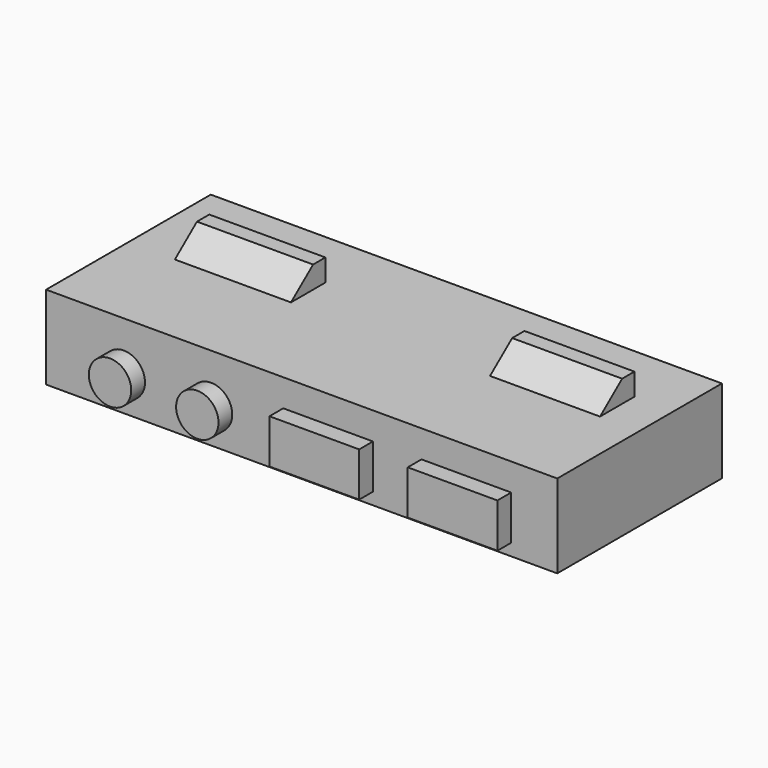
from build123d import *

# Parameters (mm, degrees)
F0_W     = 83.2
F0_H     = 13.6
F1_DEPTH = 33.5
F4_DEPTH = 69.2
F5_W     = 32.4
F5_H     = 3.6
F6_DEPTH = 8
F7_R     = 3.45
F7_W     = 14.6
F7_H     = 7.2
F8_DEPTH = 2.8


with BuildPart() as f1:
    # F0 (on Front) → F1 (new body)
    with BuildSketch(Plane.XZ):
        Rectangle(F0_W, F0_H)
    extrude(amount=F1_DEPTH)

    # F3 (on offset) → F4 (join)
    with BuildSketch(Plane(origin=(-34, 0, 0), x_dir=(0, -1, 0), z_dir=(-1, 0, 0))):
        Polygon((9.8, 10.4), (9.8, 6.8), (16.8, 6.8), (12.3, 10.4), align=None)
    extrude(amount=-F4_DEPTH)

    # F5 (on face) → F6 (cut, up to face)
    with BuildSketch(Plane(origin=(0, -9.8, 0), x_dir=(-1, 0, 0), z_dir=(0, 1, 0))):
        with Locations((-1.1, 8.6)):
            Rectangle(F5_W, F5_H)
    extrude(amount=-F6_DEPTH, mode=Mode.SUBTRACT)

    # F7 (on face) → F8 (join)
    with BuildSketch(Plane.XZ.offset(33.5)):
        with Locations((-28.95, -1.25)):
            Circle(F7_R)
        with Locations((-14.75, -1.25)):
            Circle(F7_R)
        with Locations((4.3, -1.25)):
            Rectangle(F7_W, F7_H)
        with Locations((26.8, -1.25)):
            Rectangle(F7_W, F7_H)
    extrude(amount=F8_DEPTH)


solid = f1.part
